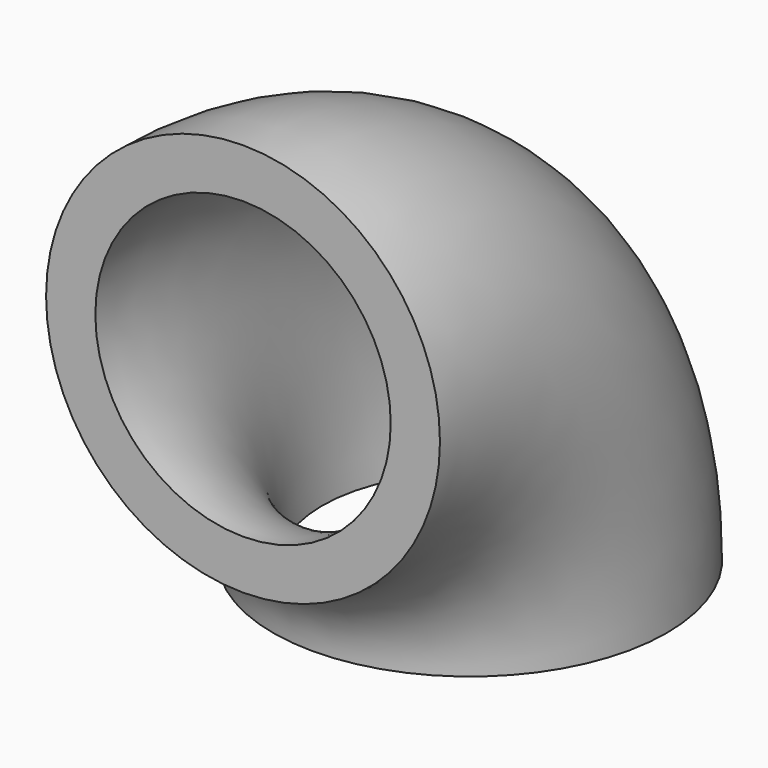
from build123d import *

# Parameters (mm, degrees)
F0_R     = 19.05
F0_R_2   = 14.2875
F1_ANGLE = -90


with BuildPart() as f1:
    # F0 (on Front) → F1 (revolve)
    with BuildSketch(Plane.XZ):
        Circle(F0_R)
        Circle(F0_R_2, mode=Mode.SUBTRACT)
    revolve(axis=Axis((0.592843, 0, -27.440876), (1, 0, 0)), revolution_arc=F1_ANGLE)


solid = f1.part
